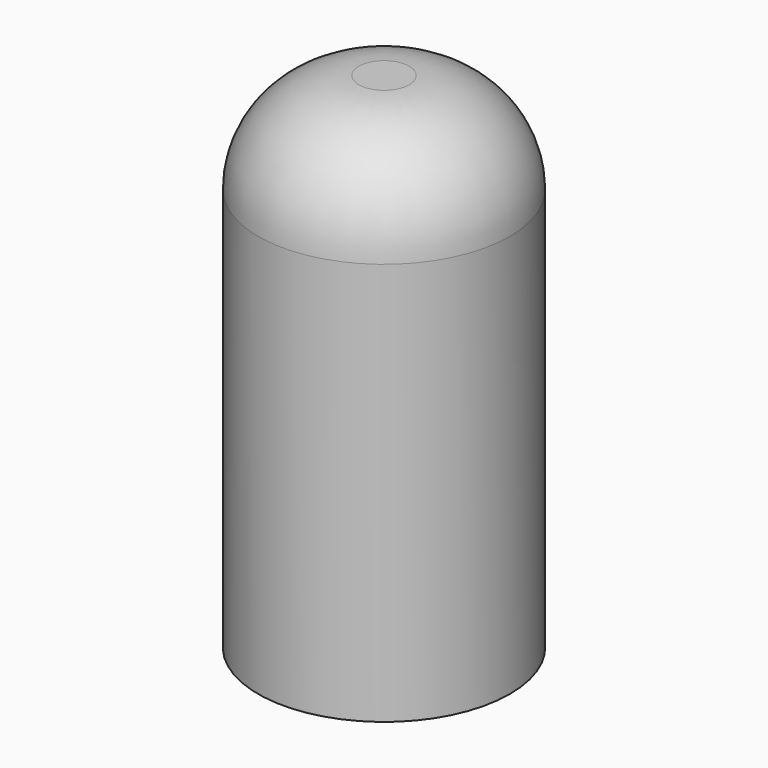
from build123d import *

# Parameters (mm, degrees)
F0_R     = 2.5
F0_R_2   = 1.25
F1_DEPTH = 10
F2_R     = 2
F4_D     = 2.5
F4_DEPTH = 4.5
F4_TIP   = 0.7510757738


with BuildPart() as f1:
    # F0 (on Top) → F1 (new body)
    with BuildSketch(Plane.XY):
        Circle(F0_R)
        Circle(F0_R_2, mode=Mode.SUBTRACT)
        Circle(F0_R_2)
    extrude(amount=F1_DEPTH)

    # F2
    f2_edges = [f1.edges().sort_by_distance(p)[0] for p in [
        (-2.5, 0, 10),
    ]]
    fillet(f2_edges, radius=F2_R)

    # F4
    with Locations(Plane(origin=(0, 0, 0), x_dir=(1, 0, 0), z_dir=(0, 0, -1))):
        with Locations((0, 0)):
            Hole(F4_D / 2, depth=F4_DEPTH)
            with Locations((0, 0, -(F4_DEPTH + F4_TIP / 2))):  # 118° drill point
                Cone(0, F4_D / 2, F4_TIP, mode=Mode.SUBTRACT)


solid = f1.part
